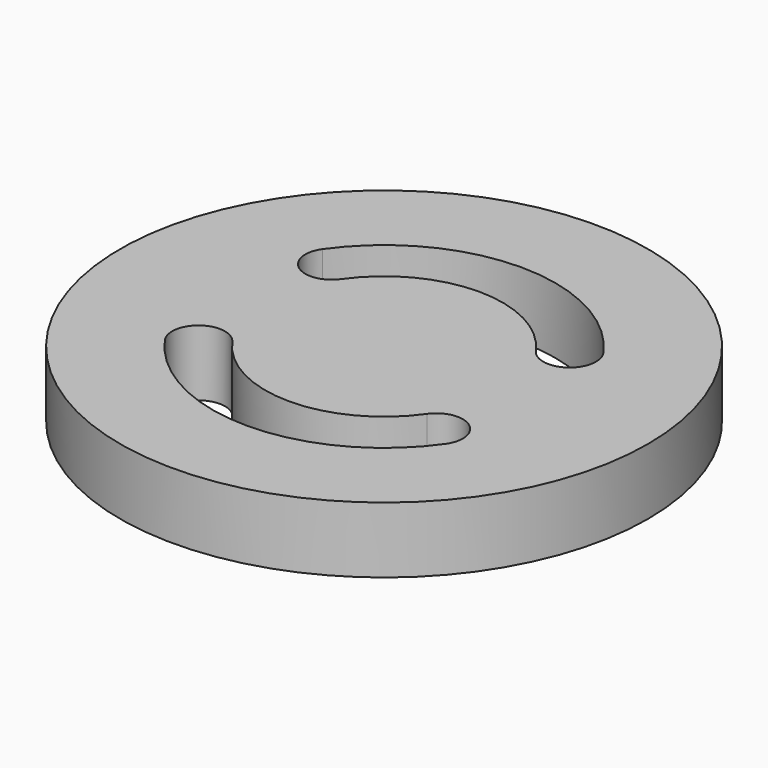
from build123d import *

# Parameters (mm, degrees)
SKETCH_R      = 20
EXTRUDE_DEPTH = 5


with BuildPart() as part:
    # Sketch → Extrude (new body)
    with BuildSketch(Plane.XY):
        Circle(SKETCH_R)
        with BuildLine():
            ThreePointArc((7.372368, 5.162188), (0, 9), (-7.372368, 5.162188))
            ThreePointArc((-10.648977, 7.456494), (-10.157825, 4.671037), (-7.372368, 5.162188))
            ThreePointArc((10.648977, 7.456494), (0, 13), (-10.648977, 7.456494))
            ThreePointArc((7.372368, 5.162188), (10.157825, 4.671037), (10.648977, 7.456494))
        make_face(mode=Mode.SUBTRACT)
        with BuildLine():
            ThreePointArc((-7.372368, -5.162188), (0, -9), (7.372368, -5.162188))
            ThreePointArc((10.648977, -7.456494), (10.157825, -4.671037), (7.372368, -5.162188))
            ThreePointArc((-10.648977, -7.456494), (0, -13), (10.648977, -7.456494))
            ThreePointArc((-7.372368, -5.162188), (-10.157825, -4.671037), (-10.648977, -7.456494))
        make_face(mode=Mode.SUBTRACT)
    extrude(amount=EXTRUDE_DEPTH)


solid = part.part
